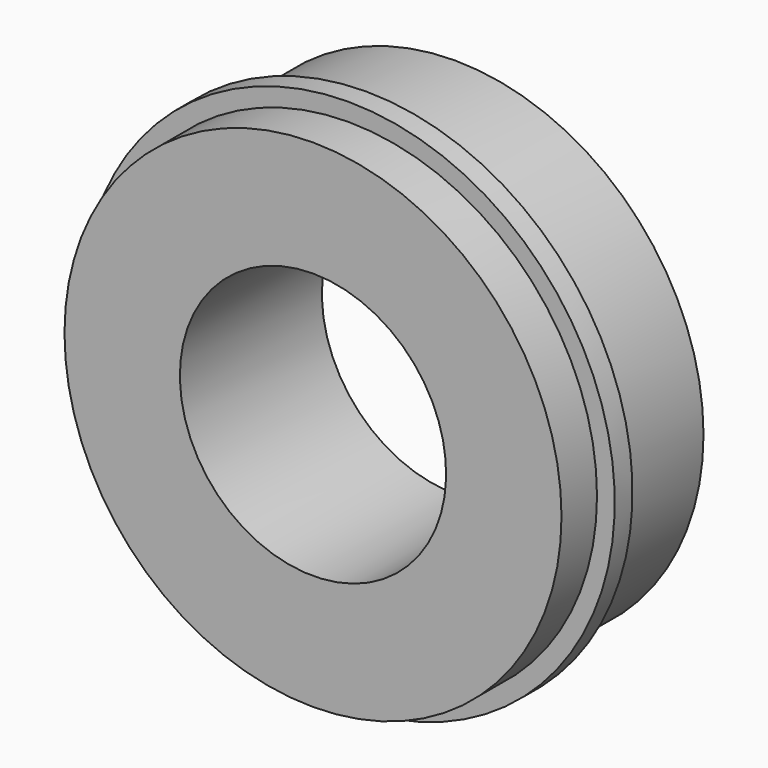
from build123d import *

# Parameters (mm, degrees)
F0_W = 5
F0_H = 4


with BuildPart() as f1:
    # F0 (on Right) → F1 (revolve)
    with BuildSketch(Plane.YZ):
        Polygon((-10, 56), (-20, 56), (-20, 30), (20, 30), (20, 56), (-5, 56), align=None)
        with Locations((-7.5, 58)):
            Rectangle(F0_W, F0_H)
    revolve(axis=Axis((0, -1.266651, 0), (0, -1, 0)))


solid = f1.part
